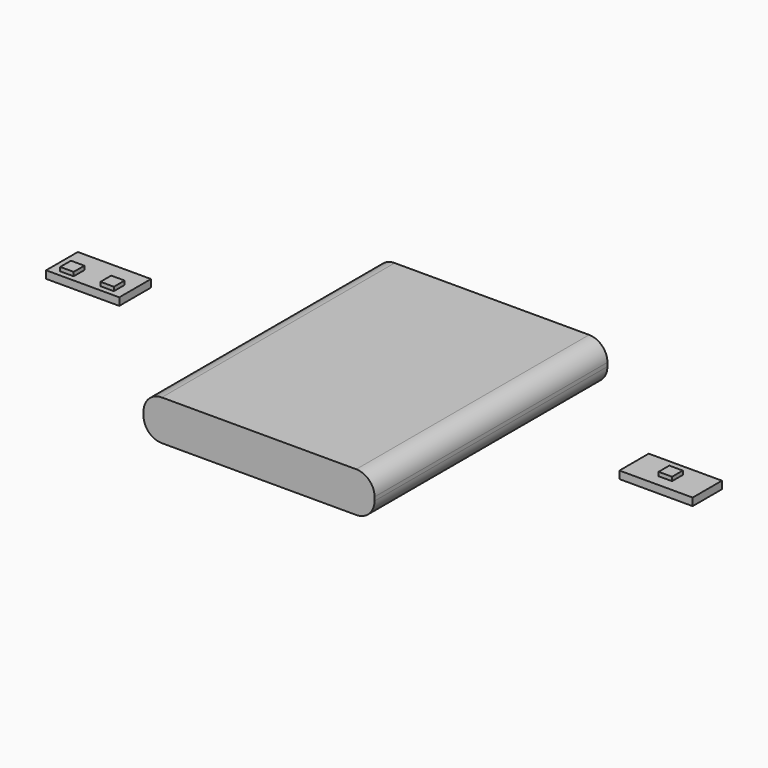
from build123d import *

# Parameters (mm, degrees)
F1_DEPTH = 4.191
F2_W     = 5.588
F2_H     = 0.635
F2_W_2   = 1.397
F2_H_2   = 1.397
F3_DEPTH = 1.5748
F4_DEPTH = 2.3876
F6_DEPTH = 1.5748
F7_DEPTH = 2.3876
F8_R     = 3.81


with BuildPart() as f1:
    # F0 (on Top) → F1 (new body, symmetric)
    with BuildSketch(Plane.XY):
        Polygon((0, -30.3022), (0, 0), (0, 30.3022), (-24.0538, 30.3022), (-24.0538, -30.3022), align=None)
        Polygon((0, 30.3022), (0, 0), (0, -30.3022), (24.0538, -30.3022), (24.0538, 30.3022), align=None)
    extrude(amount=F1_DEPTH, both=True)

    # F8
    f8_edges = [f1.edges().sort_by_distance(p)[0] for p in [
        (-24.0538, 0, 4.191),
        (-24.0538, 0, -4.191),
        (24.0538, 0, 4.191),
        (24.0538, 0, -4.191),
    ]]
    fillet(f8_edges, radius=F8_R)


with BuildPart() as f3:
    # F2 (on Top) → F3 (new body)
    with BuildSketch(Plane.XY):
        Polygon((-52.832, 0), (-50.8, 0), (-50.8, 5.08), (-66.04, 5.08), (-66.04, -3.175), (-62.611, -3.175), (-62.611, -2.032), (-64.008, -2.032), (-64.008, 0.762), (-61.214, 0.762), (-61.214, 0), (-55.626, 0), (-55.626, 0.762), (-52.832, 0.762), align=None)
        Polygon((-50.8, -3.175), (-50.8, 0), (-52.832, 0), (-52.832, -2.032), (-55.626, -2.032), (-55.626, -0.635), (-61.214, -0.635), (-61.214, -2.032), (-62.611, -2.032), (-62.611, -3.175), align=None)
        with Locations((-58.42, -0.3175)):
            Rectangle(F2_W, F2_H)
        Polygon((-64.008, -2.032), (-62.611, -2.032), (-62.611, -0.635), (-61.214, -0.635), (-61.214, 0), (-61.214, 0.762), (-64.008, 0.762), align=None)
        Polygon((-52.832, -2.032), (-52.832, 0), (-54.229, 0), (-55.626, 0), (-55.626, -0.635), (-55.626, -2.032), align=None)
        with Locations((-61.9125, -1.3335)):
            Rectangle(F2_W_2, F2_H_2)
        Polygon((-54.229, 0), (-52.832, 0), (-52.832, 0.762), (-55.626, 0.762), (-55.626, 0), align=None)
    extrude(amount=F3_DEPTH)

    # F2 (on Top) → F4 (join)
    with BuildSketch(Plane.XY):
        Polygon((-64.008, -2.032), (-62.611, -2.032), (-62.611, -0.635), (-61.214, -0.635), (-61.214, 0), (-61.214, 0.762), (-64.008, 0.762), align=None)
        with Locations((-61.9125, -1.3335)):
            Rectangle(F2_W_2, F2_H_2)
        Polygon((-52.832, -2.032), (-52.832, 0), (-54.229, 0), (-55.626, 0), (-55.626, -0.635), (-55.626, -2.032), align=None)
        Polygon((-54.229, 0), (-52.832, 0), (-52.832, 0.762), (-55.626, 0.762), (-55.626, 0), align=None)
    extrude(amount=F4_DEPTH)


with BuildPart() as f6:
    # F5 (on Top) → F6 (new body)
    with BuildSketch(Plane.XY):
        Polygon((50.8, 7.62), (50.8, 0), (58.42, 0), (66.04, 0), (66.04, 7.62), align=None)
        Polygon((59.817, 2.413), (58.42, 2.413), (57.023, 2.413), (57.023, 5.207), (59.817, 5.207), align=None, mode=Mode.SUBTRACT)
        Polygon((57.023, 2.413), (58.42, 2.413), (59.817, 2.413), (59.817, 5.207), (57.023, 5.207), align=None)
    extrude(amount=F6_DEPTH)

    # F5 (on Top) → F7 (join)
    with BuildSketch(Plane.XY):
        Polygon((57.023, 2.413), (58.42, 2.413), (59.817, 2.413), (59.817, 5.207), (57.023, 5.207), align=None)
    extrude(amount=F7_DEPTH)


solid = Compound([f1.part, f3.part, f6.part])
